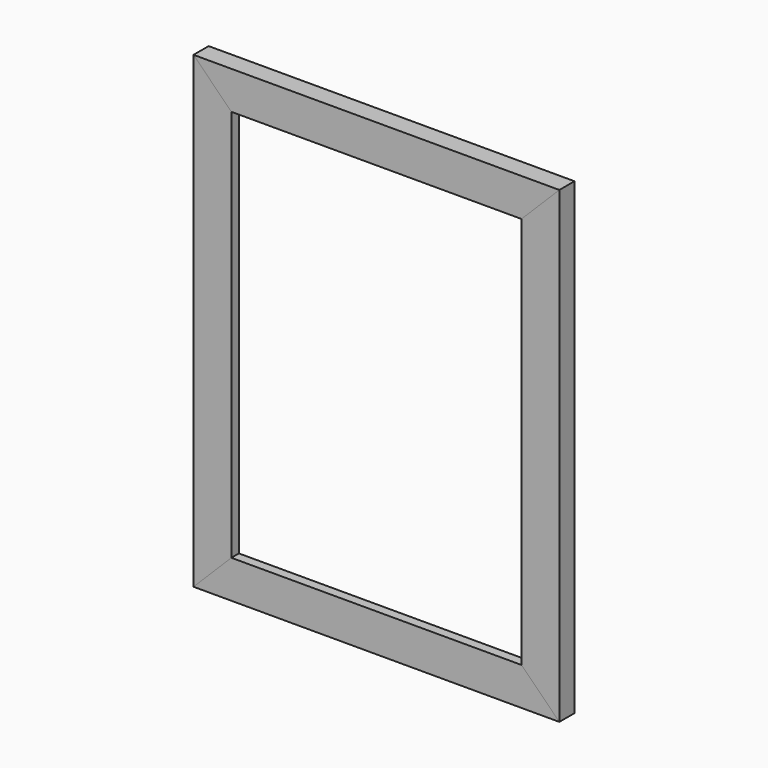
from build123d import *

# Parameters (mm, degrees)
F1_DEPTH = 19.05
F2_DEPTH = 19.05
F3_DEPTH = 19.05
F4_DEPTH = 19.05
F6_DEPTH = 9.525


with BuildPart() as f1:
    # F0 (on Front) → F1 (new body)
    with BuildSketch(Plane.XZ):
        Polygon((-38.1, 38.1), (0, 0), (0, 471.4875), (-38.1, 433.3875), align=None)
    extrude(amount=F1_DEPTH)


with BuildPart() as f2:
    # F0 (on Front) → F2 (new body)
    with BuildSketch(Plane.XZ):
        Polygon((-38.1, 433.3875), (0, 471.4875), (-368.3, 471.4875), (-330.2, 433.3875), align=None)
    extrude(amount=F2_DEPTH)


with BuildPart() as f3:
    # F0 (on Front) → F3 (new body)
    with BuildSketch(Plane.XZ):
        Polygon((-368.3, 471.4875), (-368.3, 0), (-330.2, 38.1), (-330.2, 433.3875), align=None)
    extrude(amount=F3_DEPTH)


with BuildPart() as f4:
    # F0 (on Front) → F4 (new body)
    with BuildSketch(Plane.XZ):
        Polygon((-368.3, 0), (0, 0), (-38.1, 38.1), (-330.2, 38.1), align=None)
    extrude(amount=F4_DEPTH)


with BuildPart() as f6_tool:
    # F5 (on face) → F6 (new body)
    with BuildSketch(Plane(origin=(0, 0, 0), x_dir=(-1, 0, 0), z_dir=(0, 1, 0))):
        Polygon((30.1625, 30.1625), (338.1375, 30.1625), (338.1375, 441.325), (330.2, 433.3875), (330.2, 38.1), (38.1, 38.1), (38.1, 433.3875), (30.1625, 441.325), align=None)
        Polygon((330.2, 433.3875), (338.1375, 441.325), (30.1625, 441.325), (38.1, 433.3875), align=None)
    extrude(amount=-F6_DEPTH)


with BuildPart() as f1_1:
    add(f1.part)

    # F6: cut by f6_tool
    add(f6_tool.part, mode=Mode.SUBTRACT)


with BuildPart() as f2_1:
    add(f2.part)

    # F6: cut by f6_tool
    add(f6_tool.part, mode=Mode.SUBTRACT)


with BuildPart() as f3_1:
    add(f3.part)

    # F6: cut by f6_tool
    add(f6_tool.part, mode=Mode.SUBTRACT)


with BuildPart() as f4_1:
    add(f4.part)

    # F6: cut by f6_tool
    add(f6_tool.part, mode=Mode.SUBTRACT)


solid = Compound([f1_1.part, f2_1.part, f3_1.part, f4_1.part])
